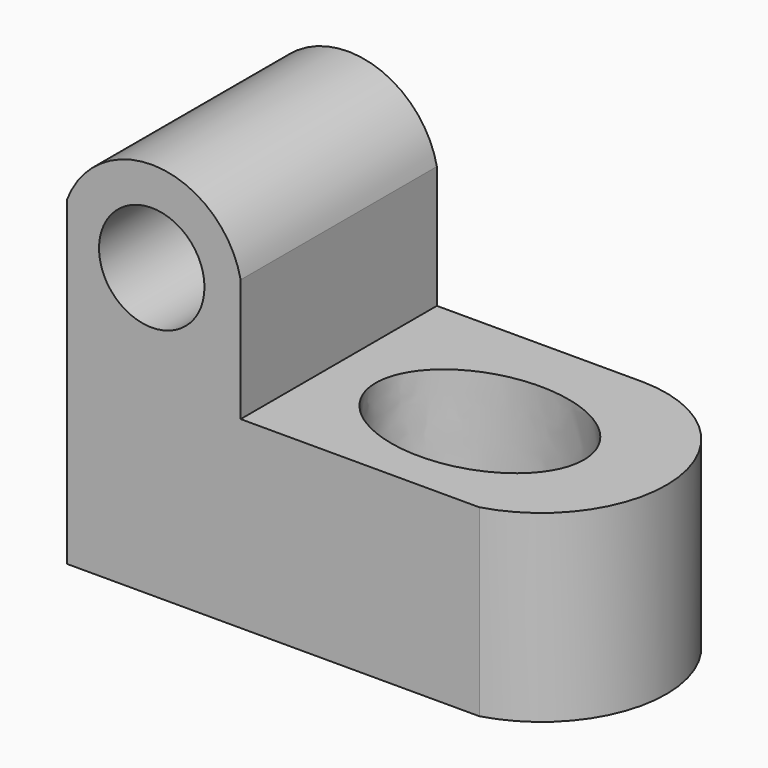
from build123d import *

# Parameters (mm, degrees)
F1_DEPTH = 25.4
F3_DEPTH = 25.4
F5_DEPTH = 25.4
F6_R     = 5.458925
F7_DEPTH = 25.4
F9_DEPTH = 25.4


with BuildPart() as f1:
    # F0 (on Front) → F1 (new body)
    with BuildSketch(Plane.XZ):
        Polygon((0, 44.45), (0, 0), (53.672622, 0), (53.672622, 19.05), (17.991669, 19.05), (17.991669, 44.45), align=None)
    extrude(amount=F1_DEPTH)

    # F2 (on face) → F3 (cut)
    with BuildSketch(Plane.XZ.offset(25.4)):
        with BuildLine():
            ThreePointArc((0, 33.195641), (9.538413, 39.225457), (17.991669, 31.75))
            Line((17.991669, 31.75), (17.991669, 44.45))
            Line((17.991669, 44.45), (0, 44.45))
            Line((0, 44.45), (0, 33.195641))
        make_face()
    extrude(amount=-F3_DEPTH, mode=Mode.SUBTRACT)

    # F4 (on face) → F5 (cut)
    with BuildSketch(Plane.XY.offset(19.05)):
        with BuildLine():
            ThreePointArc((39.288857, 0), (51.983616, -11.224049), (42.700373, -25.4))
            Line((42.700373, -25.4), (53.672622, -25.4))
            Line((53.672622, -25.4), (53.672622, 0))
            Line((53.672622, 0), (39.288857, 0))
        make_face()
    extrude(amount=-F5_DEPTH, mode=Mode.SUBTRACT)

    # F6 (on face) → F7 (cut)
    with BuildSketch(Plane.XZ.offset(25.4)):
        with Locations((8.785654, 29.857033)):
            Circle(F6_R)
    extrude(amount=-F7_DEPTH, mode=Mode.SUBTRACT)

    # F8 (on face) → F9 (cut)
    with BuildSketch(Plane.XY.offset(19.05)):
        with BuildLine():
            add(Edge.make_bspline(
                [(44.118993, -13.618723), (44.118993, -0.046107), (27.946753, -6.832415), (11.774514, -13.618723), (27.946753, -20.405032), (44.118993, -27.19134), (44.118993, -13.618723)],
                knots=[0, 0, 0, 2.094395, 2.094395, 4.18879, 4.18879, 6.283185, 6.283185, 6.283185], degree=2, weights=[1, 0.5, 1, 0.5, 1, 0.5, 1]))
        make_face()
    extrude(amount=-F9_DEPTH, mode=Mode.SUBTRACT)


solid = f1.part
